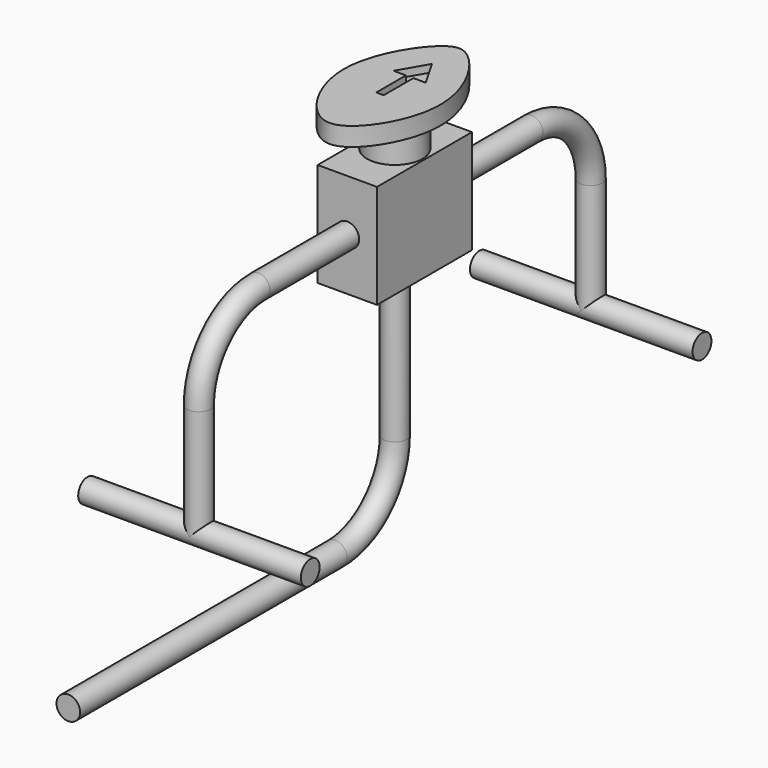
from build123d import *

# Parameters (mm, degrees)
F1_DEPTH  = 16
F5_R      = 3.175
F7_R      = 7.5
F8_DEPTH  = 10
F9_R      = 7.5
F10_DEPTH = 5
F17_R     = 3.175
F21_R     = 3.175
F27_R     = 3.175
F30_R     = 3.175
F32_W     = 2
F32_H     = 10
F33_DEPTH = 2


with BuildPart() as f1:
    # F0 (on Front) → F1 (new body, symmetric)
    with BuildSketch(Plane.XZ):
        Polygon((-48.0432198807, 98.5551881223), (-64.0432198807, 98.5551881223), (-64.0432198807, 70.5551881223), (-56.0432198807, 70.5551881223), (-48.0432198807, 70.5551881223), align=None)
    extrude(amount=F1_DEPTH, both=True)

    # F6: sweep along a path in F6_path
    with BuildLine(Plane(origin=(-56.0432198807, -20, 10.5551881223), x_dir=(0, 0, -1), z_dir=(-1, 0, 0))) as f6_path:
        Line((0, 90), (0, 0))
        ThreePointArc((0, 0), (-5.8578643763, -14.1421356237), (-20, -20))
        Line((-20, -20), (-60, -20))
    # F5 (on line) → F6 (sweep)
    with BuildSketch(Plane.XZ.offset(110)):
        with Locations((-56.0432198807, 10.5551881223)):
            Circle(F5_R)
    sweep(path=f6_path.line)

    # F7 (on face) → F8 (join)
    with BuildSketch(Plane.XY.offset(98.5551881223)):
        with Locations((-56.0432198807, 0)):
            Circle(F7_R)
    extrude(amount=F8_DEPTH)

    # F9 (on face) → F10 (join)
    with BuildSketch(Plane.XY.offset(108.5551881223)):
        with BuildLine():
            add(Edge.make_bspline(
                [(-59.0432198807, 20.5), (-63.1820776134, 17.5225742997), (-74.2087905269, 0.0386020272), (-61.6906458692, -22.42712819), (-50.3957938922, -22.42712819), (-37.8776492346, 0.0386020272), (-51.745247395, 22.0270861409), (-56.9204490985, 22.0270861409), (-59.0432198807, 20.5)],
                knots=[0, 0, 0, 0, 0.1965948121, 0.3913695495, 0.5077993154, 0.7025740528, 0.8991688649, 1, 1, 1, 1], degree=3))
        make_face()
        with Locations((-56.0432198807, 0)):
            Circle(F9_R, mode=Mode.SUBTRACT)
        with Locations((-56.0432198807, 0)):
            Circle(F9_R)
    extrude(amount=F10_DEPTH)

    # F18: sweep along a path in F15, F13
    with BuildLine(Plane.XZ.offset(66)) as f18_path:
        Line((-56.0432198807, 34.5551881223), (-26.0432198807, 34.5551881223))
    with BuildLine(Plane.YZ.offset(-56.0432198807)) as f18_path_2:
        Line((-66, 34.5551881223), (-66, 64.5551881223))
        ThreePointArc((-66, 64.5551881223), (-60.1421356237, 78.697323746), (-46, 84.5551881223))
        Line((-46, 84.5551881223), (-16, 84.5551881223))
    # F17 (on line) → F18 (sweep)
    with BuildSketch(Plane.YZ.offset(-26.0432198807)):
        with Locations((-66, 34.5551881223)):
            Circle(F17_R)
    sweep(path=f18_path.line + f18_path_2.line, transition=Transition.RIGHT)

    # F22: sweep along a path in F19
    with BuildLine(Plane.XZ.offset(66)) as f22_path:
        Line((-86.0432198807, 34.5551881223), (-56.0432198807, 34.5551881223))
    # F21 (on line) → F22 (sweep)
    with BuildSketch(Plane.YZ.offset(-86.0432198807)):
        with Locations((-66, 34.5551881223)):
            Circle(F21_R)
    sweep(path=f22_path.line)

    # F28: sweep along a path in F25, F23
    with BuildLine(Plane(origin=(0, 0, 34.5551881223), x_dir=(1, 0, 0), z_dir=(0, 0, -1))) as f28_path:
        Line((-56.0432198807, -66), (-26.0432198807, -66))
    with BuildLine(Plane.YZ.offset(-56.0432198807)) as f28_path_2:
        Line((66, 34.5551881223), (66, 64.5551881223))
        ThreePointArc((66, 64.5551881223), (60.1421356237, 78.697323746), (46, 84.5551881223))
        Line((46, 84.5551881223), (16, 84.5551881223))
    # F27 (on line) → F28 (sweep)
    with BuildSketch(Plane.YZ.offset(-26.0432198807)):
        with Locations((66, 34.5551881223)):
            Circle(F27_R)
    sweep(path=f28_path.line + f28_path_2.line, transition=Transition.RIGHT)

    # F31: sweep along a path in F25
    with BuildLine(Plane(origin=(0, 0, 34.5551881223), x_dir=(1, 0, 0), z_dir=(0, 0, -1))) as f31_path:
        Line((-56.0432198807, -66), (-86.0432198807, -66))
    # F30 (on line) → F31 (sweep)
    with BuildSketch(Plane(origin=(-86.0432198807, 0, 0), x_dir=(0, -1, 0), z_dir=(-1, 0, 0))):
        with Locations((-66, 34.5551881223)):
            Circle(F30_R)
    sweep(path=f31_path.line)

    # F32 (on face) → F33 (cut)
    with BuildSketch(Plane.XY.offset(113.5551881223)):
        with Locations((-56.0432198807, 0)):
            Rectangle(F32_W, F32_H)
        Polygon((-60.3733468996, 5), (-57.0432198807, 5), (-55.0432198807, 5), (-51.7130928618, 5), (-56.0432198807, 12.5), align=None)
    extrude(amount=-F33_DEPTH, mode=Mode.SUBTRACT)


solid = f1.part
